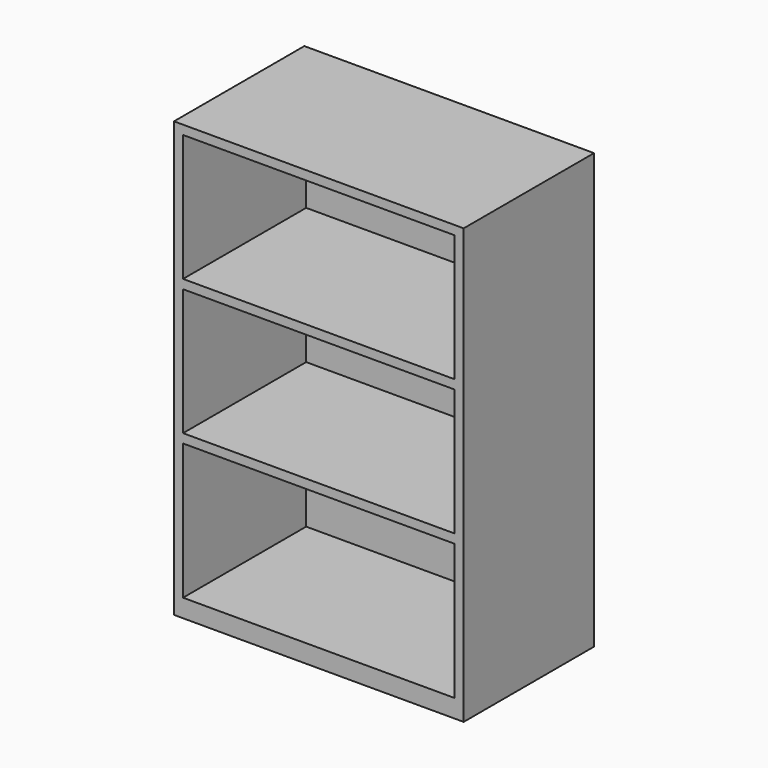
from build123d import *

# Parameters (mm, degrees)
F0_W     = 32
F0_H     = 48
F0_W_2   = 30
F0_H_2   = 15
F0_H_3   = 14
F1_DEPTH = 17
F2_W     = 32
F2_H     = 48
F3_DEPTH = 1


with BuildPart() as f1:
    # F0 (on Front) → F1 (new body)
    with BuildSketch(Plane.XZ):
        with Locations((16, 24)):
            Rectangle(F0_W, F0_H)
        with Locations((16, 9.5)):
            Rectangle(F0_W_2, F0_H_2, mode=Mode.SUBTRACT)
        with Locations((16, 25)):
            Rectangle(F0_W_2, F0_H_3, mode=Mode.SUBTRACT)
        with Locations((16, 40)):
            Rectangle(F0_W_2, F0_H_3, mode=Mode.SUBTRACT)
    extrude(amount=F1_DEPTH)

    # F2 (on Front) → F3 (join)
    with BuildSketch(Plane.XZ):
        with Locations((16, 24)):
            Rectangle(F2_W, F2_H)
    extrude(amount=-F3_DEPTH)


solid = f1.part
